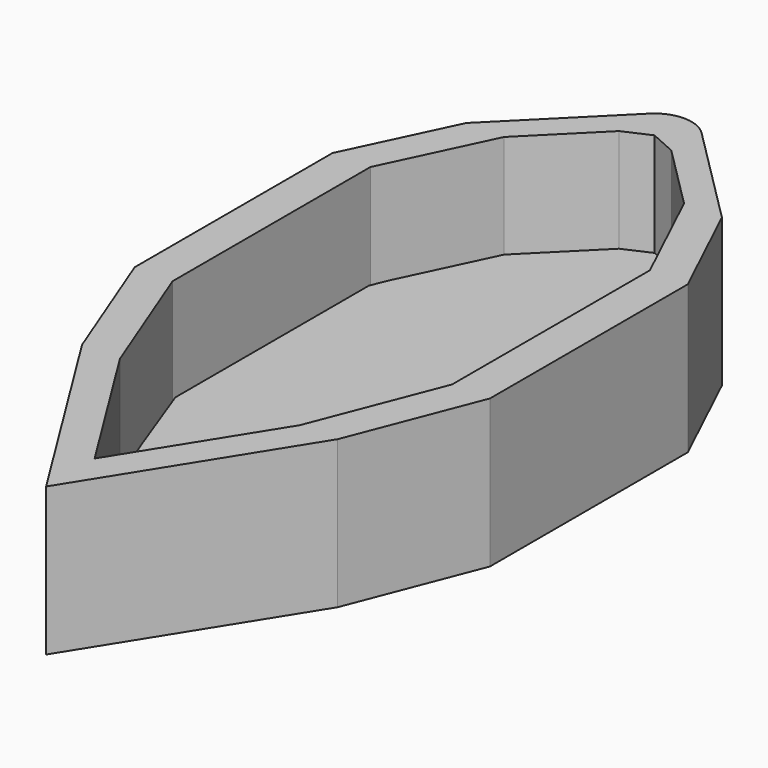
from build123d import *

# Parameters (mm, degrees)
F1_DEPTH = 25.4
F3_DEPTH = 7.62


with BuildPart() as f1:
    # F0 (on Top) → F1 (new body)
    with BuildSketch(Plane.XY):
        with BuildLine():
            Line((-21.94954, -30.042156), (0, -65.198988))
            Line((0, -65.198988), (21.94954, -30.042156))
            Line((21.94954, -30.042156), (30.500225, -8.054676))
            Line((30.500225, -8.054676), (30.500225, 34.393379))
            Line((30.500225, 34.393379), (21.94954, 52.410898))
            Line((21.94954, 52.410898), (4.490128, 69.87031))
            ThreePointArc((4.490128, 69.87031), (0, 71.730182), (-4.490128, 69.87031))
            Line((-4.490128, 69.87031), (-21.94954, 52.410898))
            Line((-21.94954, 52.410898), (-30.500225, 34.393379))
            Line((-30.500225, 34.393379), (-30.500225, -8.054676))
            Line((-30.500225, -8.054676), (-21.94954, -30.042156))
        make_face()
        Polygon((-15.445927, 52.410898), (-4.490128, 63.366696), (0, 65.380182), (4.490128, 63.366696), (15.445927, 52.410898), (23.996611, 34.393379), (23.996611, -8.054676), (15.445927, -30.042156), (0, -54.782075), (-15.445927, -30.042156), (-23.996611, -8.054676), (-23.996611, 34.393379), align=None, mode=Mode.SUBTRACT)
    extrude(amount=F1_DEPTH)

    # F2 (on Top) → F3 (join)
    with BuildSketch(Plane.XY):
        Polygon((-16.171693, 53.127095), (-23.972463, 34.050059), (-23.972463, -7.481851), (-15.727157, -29.774714), (0, -54.20525), (15.727157, -29.774714), (23.667078, -8.092615), (23.667078, 33.744678), (15.727157, 52.067574), (5.649563, 62.45055), (0, 66.115133), (-6.565708, 62.45055), align=None)
    extrude(amount=F3_DEPTH)


solid = f1.part
